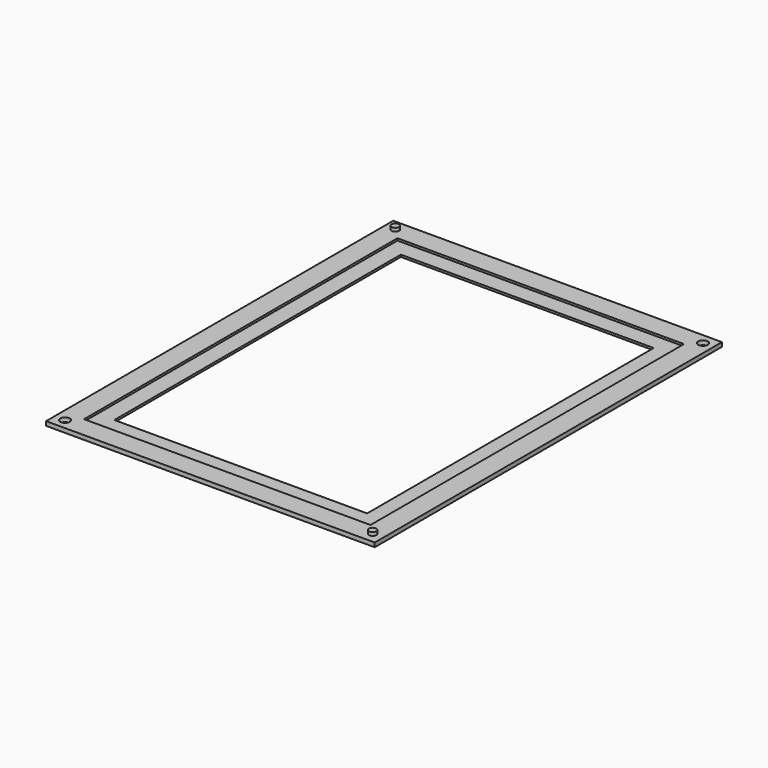
from build123d import *

# Parameters (mm, degrees)
F0_W     = 68
F0_H     = 93
F0_W_2   = 60
F0_H_2   = 85
F1_DEPTH = 0.5
F0_W_3   = 78
F0_H_3   = 103
F0_R     = 1.125
F0_R_2   = 0.875
F2_DEPTH = 1
F3_DEPTH = 1.8


with BuildPart() as f1:
    # F0 (on Top) → F1 (new body)
    with BuildSketch(Plane.XY):
        with Locations((39, 51.5)):
            Rectangle(F0_W, F0_H)
        with Locations((39, 51.5)):
            Rectangle(F0_W_2, F0_H_2, mode=Mode.SUBTRACT)
    extrude(amount=F1_DEPTH)

    # F0 (on Top) → F2 (join)
    with BuildSketch(Plane.XY):
        with Locations((39, 51.5)):
            Rectangle(F0_W_3, F0_H_3)
        with Locations((2.5, 2.5)):
            Circle(F0_R, mode=Mode.SUBTRACT)
        with Locations((75.5, 2.5)):
            Circle(F0_R_2, mode=Mode.SUBTRACT)
        with Locations((39, 51.5)):
            Rectangle(F0_W, F0_H, mode=Mode.SUBTRACT)
        with Locations((2.5, 100.5)):
            Circle(F0_R_2, mode=Mode.SUBTRACT)
        with Locations((75.5, 100.5)):
            Circle(F0_R, mode=Mode.SUBTRACT)
    extrude(amount=F2_DEPTH)

    # F0 (on Top) → F3 (join)
    with BuildSketch(Plane.XY):
        with Locations((75.5, 2.5)):
            Circle(F0_R_2)
        with Locations((2.5, 100.5)):
            Circle(F0_R_2)
    extrude(amount=F3_DEPTH)


solid = f1.part
